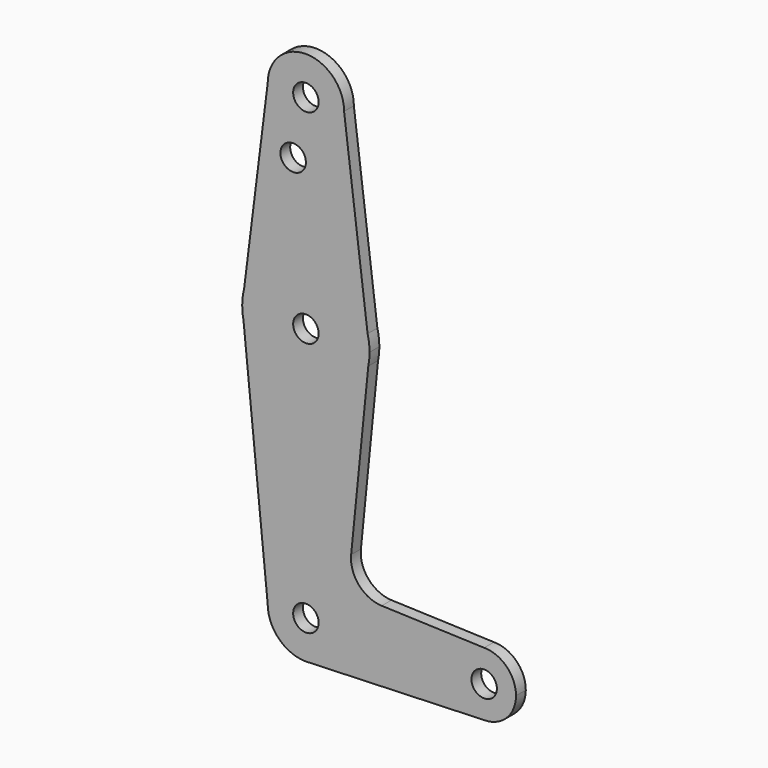
from build123d import *

# Parameters (mm, degrees)
F0_R     = 3.175
F1_DEPTH = 3.048


with BuildPart() as f1:
    # F0 (on Front) → F1 (new body)
    with BuildSketch(Plane.XZ):
        with BuildLine():
            ThreePointArc((-9.525, 114.3), (0, 104.775), (9.525, 114.3))
            ThreePointArc((9.525, 114.3), (0, 123.825), (-9.525, 114.3))
        make_face()
        with Locations((0, 114.3)):
            Circle(F0_R, mode=Mode.SUBTRACT)
        with BuildLine():
            Line((15.3865384615, 67.4076923077), (9.525, 114.3))
            ThreePointArc((9.525, 114.3), (0, 104.775), (-9.525, 114.3))
            Line((-9.525, 114.3), (-15.3865384615, 67.4076923077))
            ThreePointArc((-15.3865384615, 67.4076923077), (0, 79.375), (15.3865384615, 67.4076923077))
        make_face()
        with Locations((-3.175, 100.0252)):
            Circle(F0_R, mode=Mode.SUBTRACT)
        with BuildLine():
            Line((15.875, 63.5), (15.3865384615, 67.4076923077))
            ThreePointArc((15.3865384615, 67.4076923077), (0, 79.375), (-15.3865384615, 67.4076923077))
            Line((-15.3865384615, 67.4076923077), (-15.875, 63.5))
            Line((-15.875, 63.5), (-15.5606435644, 60.3564356436))
            ThreePointArc((-15.5606435644, 60.3564356436), (0, 47.625), (15.5606435644, 60.3564356436))
            Line((15.5606435644, 60.3564356436), (15.875, 63.5))
        make_face()
        with Locations((0, 63.5)):
            Circle(F0_R, mode=Mode.SUBTRACT)
        with BuildLine():
            ThreePointArc((15.875, 63.5), (15.7524112928, 65.4690514116), (15.3865384615, 67.4076923077))
            Line((15.3865384615, 67.4076923077), (15.875, 63.5))
        make_face()
        with BuildLine():
            Line((-15.875, 63.5), (-15.3865384615, 67.4076923077))
            ThreePointArc((-15.3865384615, 67.4076923077), (-15.7524112928, 65.4690514116), (-15.875, 63.5))
        make_face()
        with BuildLine():
            ThreePointArc((15.5606435644, 60.3564356436), (15.7962153946, 61.9203784605), (15.875, 63.5))
            Line((15.875, 63.5), (15.5606435644, 60.3564356436))
        make_face()
        with BuildLine():
            Line((-15.5606435644, 60.3564356436), (-15.875, 63.5))
            ThreePointArc((-15.875, 63.5), (-15.7962153946, 61.9203784605), (-15.5606435644, 60.3564356436))
        make_face()
        with BuildLine():
            Line((11.2835831424, 17.5858314242), (15.5606435644, 60.3564356436))
            ThreePointArc((15.5606435644, 60.3564356436), (0, 47.625), (-15.5606435644, 60.3564356436))
            Line((-15.5606435644, 60.3564356436), (-9.525, 0))
            ThreePointArc((-9.525, 0), (0, 9.525), (9.525, 0))
            ThreePointArc((9.525, 0), (6.9712901065, -6.4905114784), (0.6794904459, -9.5007324841))
            Line((0.6794904459, -9.5007324841), (44.45, -7.9375))
            ThreePointArc((44.45, -7.9375), (36.5125, 0), (44.45, 7.9375))
            Line((44.45, 7.9375), (18.9105730062, 8.8496223926))
            ThreePointArc((18.9105730062, 8.8496223926), (13.2053552395, 11.5661923774), (11.2835831424, 17.5858314242))
        make_face()
        with BuildLine():
            ThreePointArc((9.525, 0), (0, 9.525), (-9.525, 0))
            ThreePointArc((-9.525, 0), (-6.7351920908, -6.7351920908), (0, -9.525))
            Line((0, -9.525), (0.6794904459, -9.5007324841))
            ThreePointArc((0.6794904459, -9.5007324841), (6.9712901065, -6.4905114784), (9.525, 0))
        make_face()
        Circle(F0_R, mode=Mode.SUBTRACT)
        with BuildLine():
            Line((0.6794904459, -9.5007324841), (0, -9.525))
            ThreePointArc((0, -9.525), (0.3399618281, -9.5189311877), (0.6794904459, -9.5007324841))
        make_face()
        with BuildLine():
            ThreePointArc((52.3875, 0), (50.0626600757, 5.6126600757), (44.45, 7.9375))
            ThreePointArc((44.45, 7.9375), (36.5125, 0), (44.45, -7.9375))
            ThreePointArc((44.45, -7.9375), (50.0626600757, -5.6126600757), (52.3875, 0))
        make_face()
        with Locations((44.45, 0)):
            Circle(F0_R, mode=Mode.SUBTRACT)
    extrude(amount=F1_DEPTH)


solid = f1.part
